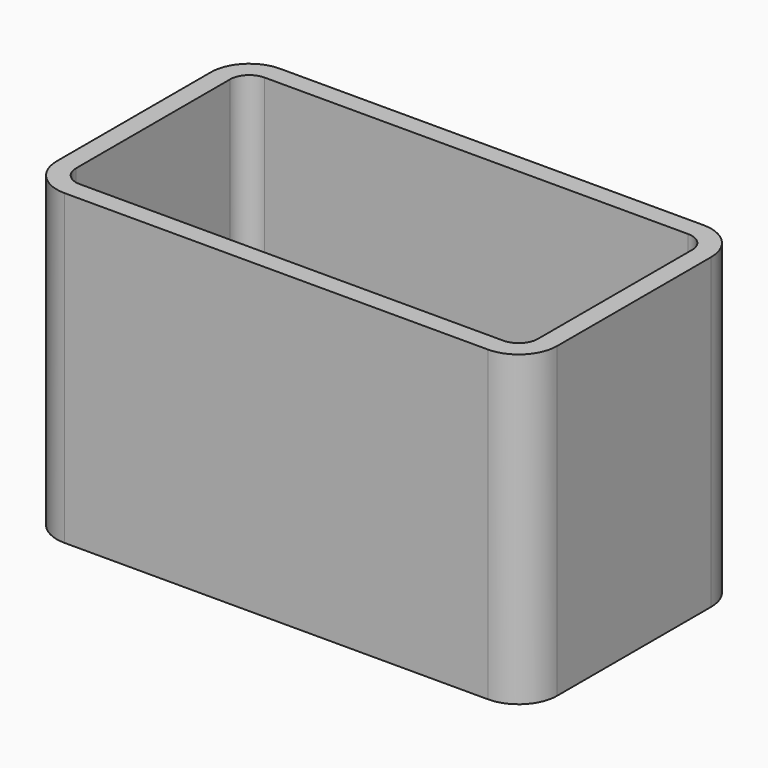
from build123d import *

# Parameters (mm, degrees)
F0_W     = 66.04
F0_H     = 40.64
F1_DEPTH = 35.56
F2_R     = 5.08
F3_T     = -2.54


with BuildPart() as f1:
    # F0 (on Front) → F1 (new body)
    with BuildSketch(Plane.XZ):
        Rectangle(F0_W, F0_H)
    extrude(amount=F1_DEPTH)

    # F2
    f2_edges = [f1.edges().sort_by_distance(p)[0] for p in [
        (33.02, -35.56, 0),
        (33.02, 0, 0),
        (-33.02, -35.56, 0),
        (-33.02, 0, 0),
    ]]
    fillet(f2_edges, radius=F2_R)

    # F3
    f3_openings = [f1.faces().sort_by_distance(p)[0] for p in [
        (0, -17.78, 20.32),
    ]]
    offset(amount=F3_T, openings=f3_openings)


solid = f1.part
